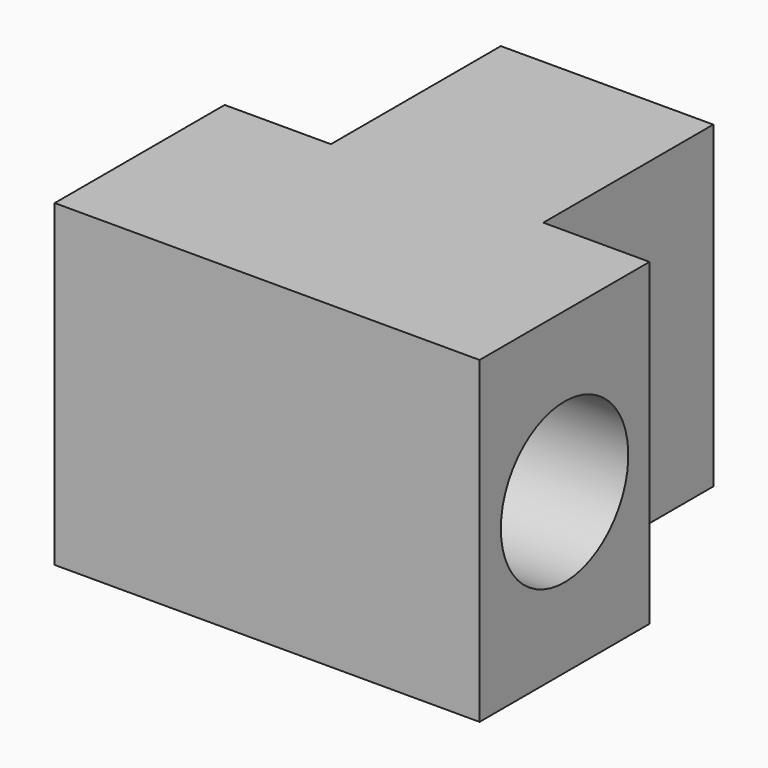
from build123d import *

# Parameters (mm, degrees)
F0_W     = 50.8
F0_H     = 50.8
F1_DEPTH = 76.2
F3_D     = 38.1


with BuildPart() as f1:
    # F0 (on Top) → F1 (new body)
    with BuildSketch(Plane.XY):
        Polygon((-50.8, -25.4), (50.8, -25.4), (50.8, 25.4), (25.4, 25.4), (-25.4, 25.4), (-50.8, 25.4), align=None)
        with Locations((0, 50.8)):
            Rectangle(F0_W, F0_H)
        with Locations((0, 50.8)):
            Rectangle(F0_W, F0_H)
    extrude(amount=F1_DEPTH)

    # F3 (through all)
    with Locations(Plane.YZ.offset(50.8)):
        with Locations((0, 38.1)):
            Hole(F3_D / 2)


solid = f1.part
